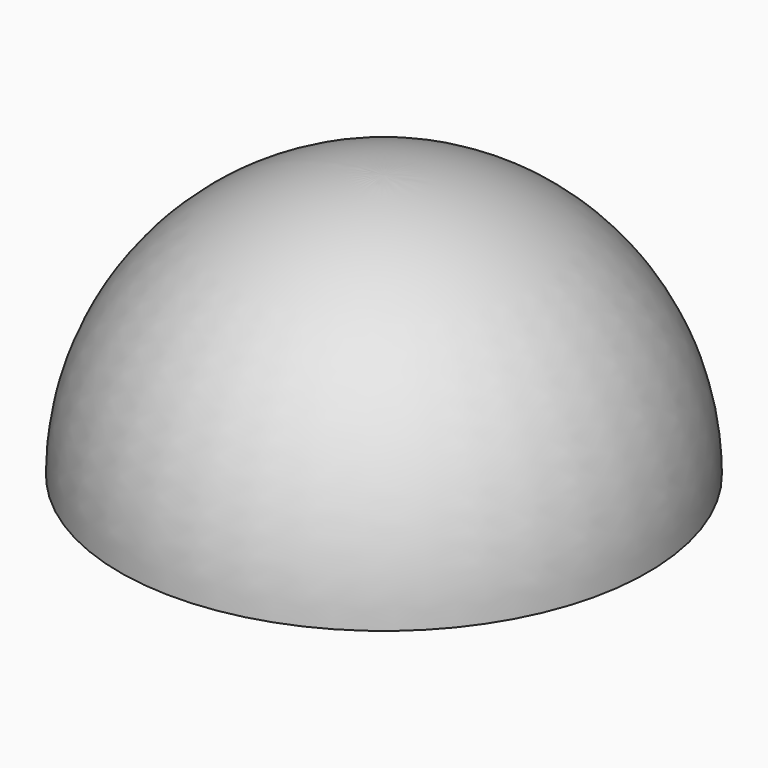
from build123d import *


with BuildPart() as f1:
    # F0 (on Front) → F1 (revolve)
    with BuildSketch(Plane.XZ):
        with BuildLine():
            ThreePointArc((0, 203.2), (-143.684098, 143.684098), (-203.2, 0))
            Line((-203.2, 0), (0, 0))
            Line((0, 0), (0, 203.2))
        make_face()
    revolve(axis=Axis((0, 0, 101.6), (0, 0, -1)))


solid = f1.part
